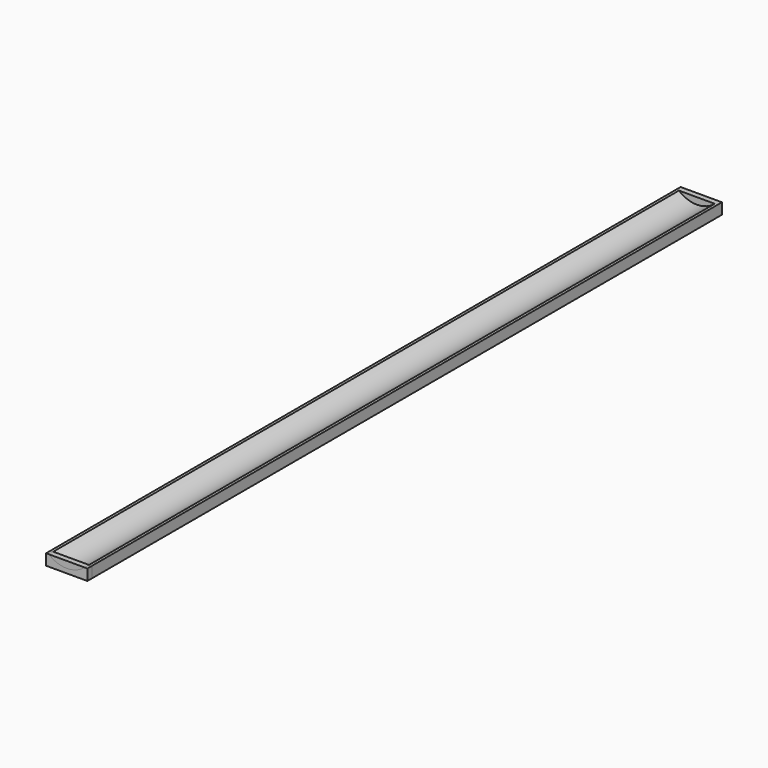
from build123d import *

# Parameters (mm, degrees)
F1_DEPTH = 1803.4
F2_W     = 95.25
F2_H     = 12.7
F3_DEPTH = 25.4
F5_DEPTH = 12.7
F6_DEPTH = 12.7


with BuildPart() as f1:
    # F0 (on Front) → F1 (new body)
    with BuildSketch(Plane.XZ):
        with BuildLine():
            Line((0, 25.4), (0, 0))
            Line((0, 0), (6.35, 0))
            Line((6.35, 0), (88.9, 0))
            Line((88.9, 0), (95.25, 0))
            Line((95.25, 0), (95.25, 25.4))
            Line((95.25, 25.4), (88.9, 25.4))
            ThreePointArc((88.9, 25.4), (47.625, 10.16), (6.35, 25.4))
            Line((6.35, 25.4), (0, 25.4))
        make_face()
    extrude(amount=F1_DEPTH)

    # F2 (on Top) → F3 (join)
    with BuildSketch(Plane.XY):
        with Locations((47.625, 6.35)):
            Rectangle(F2_W, F2_H)
    extrude(amount=F3_DEPTH)


with BuildPart() as f5:
    # F4 (on face) → F5 (new body)
    with BuildSketch(Plane.XZ.offset(1803.4)):
        with BuildLine():
            Line((88.9, 25.4), (6.35, 25.4))
            ThreePointArc((6.35, 25.4), (47.625, 10.16), (88.9, 25.4))
        make_face()
    extrude(amount=F5_DEPTH)


with BuildPart() as f6:
    # F6 (new): a face of the model
    f6_faces = [f1.part.faces().sort_by_distance(p)[0] for p in [
        (47.625, -1803.4, 9.0874944797),
    ]]
    extrude(f6_faces, amount=F6_DEPTH)


solid = Compound([f1.part, f5.part, f6.part])
